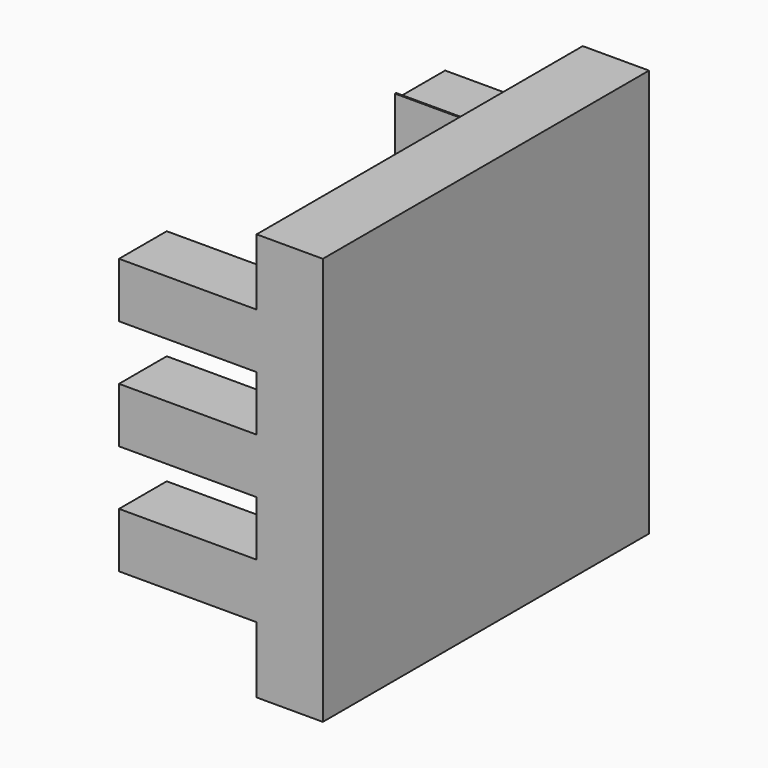
from build123d import *

# Parameters (mm, degrees)
F0_W      = 25.4
F0_H      = 50.8
F1_DEPTH  = 50.8
F2_W      = 35.56
F2_H      = 35.56
F3_DEPTH  = 12.7
F4_W      = 17.145
F4_H      = 8.255
F4_H_2    = 6.858
F5_DEPTH  = 7.62
F6_W      = 17.145
F6_H      = 8.255
F6_H_2    = 6.858
F7_DEPTH  = 7.62
F8_W      = 17.145
F8_H      = 35.56
F9_DEPTH  = 7.62
F10_W     = 17.145
F10_H     = 35.56
F11_DEPTH = 7.62


with BuildPart() as f1:
    # F0 (on Front) → F1 (new body)
    with BuildSketch(Plane.XZ):
        with Locations((12.7, 25.4)):
            Rectangle(F0_W, F0_H)
    extrude(amount=F1_DEPTH)

    # F2 (on face) → F3 (cut)
    with BuildSketch(Plane(origin=(0, 0, 0), x_dir=(0, -1, 0), z_dir=(-1, 0, 0))):
        with Locations((25.584483, 25.4)):
            Rectangle(F2_W, F2_H)
    extrude(amount=-F3_DEPTH, mode=Mode.SUBTRACT)

    # F4 (on face) → F5 (cut)
    with BuildSketch(Plane(origin=(0, 0, 0), x_dir=(-1, 0, 0), z_dir=(0, 1, 0))):
        with Locations((-8.5725, 46.6725)):
            Rectangle(F4_W, F4_H)
        with Locations((-8.5725, 32.258)):
            Rectangle(F4_W, F4_H_2)
        with Locations((-8.5725, 18.542)):
            Rectangle(F4_W, F4_H_2)
        with Locations((-8.5725, 4.1275)):
            Rectangle(F4_W, F4_H)
    extrude(amount=-F5_DEPTH, mode=Mode.SUBTRACT)

    # F6 (on face) → F7 (cut)
    with BuildSketch(Plane.XZ.offset(50.8)):
        with Locations((8.5725, 46.6725)):
            Rectangle(F6_W, F6_H)
        with Locations((8.5725, 32.258)):
            Rectangle(F6_W, F6_H_2)
        with Locations((8.5725, 18.542)):
            Rectangle(F6_W, F6_H_2)
        with Locations((8.5725, 4.1275)):
            Rectangle(F6_W, F6_H)
    extrude(amount=-F7_DEPTH, mode=Mode.SUBTRACT)

    # F8 (on face) → F9 (cut)
    with BuildSketch(Plane.XY.offset(50.8)):
        with Locations((8.5725, -25.4)):
            Rectangle(F8_W, F8_H)
    extrude(amount=-F9_DEPTH, mode=Mode.SUBTRACT)

    # F10 (on face) → F11 (cut)
    with BuildSketch(Plane(origin=(0, 0, 0), x_dir=(1, 0, 0), z_dir=(0, 0, -1))):
        with Locations((8.5725, 25.4)):
            Rectangle(F10_W, F10_H)
    extrude(amount=-F11_DEPTH, mode=Mode.SUBTRACT)


solid = f1.part
